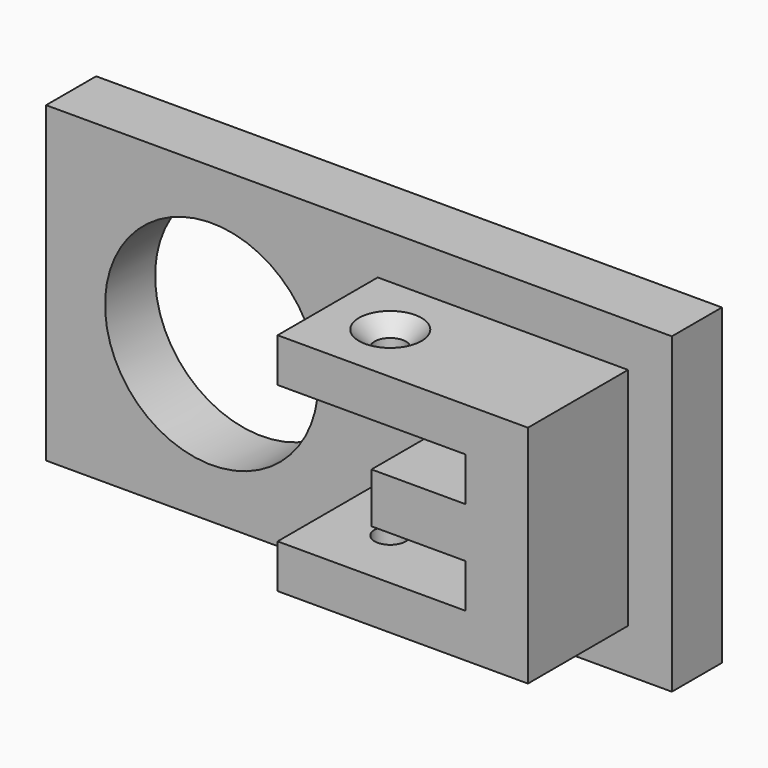
from build123d import *

# Parameters (mm, degrees)
F0_W           = 100
F0_H           = 50
F0_R           = 17.029171721
F1_DEPTH       = 10
F3_DEPTH       = 20
F5_D           = 5
F5_DEPTH       = 12
F5_CSINK_D     = 10
F5_CSINK_ANGLE = 90
F5_TIP         = 1.5021515476
F7_D           = 5
F7_CSINK_D     = 10
F7_CSINK_ANGLE = 90
F8_T           = -2.5


with BuildPart() as f1:
    # F0 (on Front) → F1 (new body)
    with BuildSketch(Plane.XZ):
        with Locations((50, 25)):
            Rectangle(F0_W, F0_H)
        with Locations((26.453634724, 25)):
            Circle(F0_R, mode=Mode.SUBTRACT)
    extrude(amount=F1_DEPTH)

    # F2 (on face) → F3 (join)
    with BuildSketch(Plane.XZ.offset(10)):
        Polygon((93, 43), (53, 43), (53, 36), (83, 36), (83, 29), (68, 29), (68, 21), (83, 21), (83, 14), (53, 14), (53, 7), (93, 7), align=None)
    extrude(amount=F3_DEPTH)

    # F5
    with Locations(Plane(origin=(0, 0, 7), x_dir=(1, 0, 0), z_dir=(0, 0, -1))):
        with Locations((63, 20)):
            CounterSinkHole(F5_D / 2, F5_CSINK_D / 2, depth=F5_DEPTH, counter_sink_angle=F5_CSINK_ANGLE)
            with Locations((0, 0, -(F5_DEPTH + F5_TIP / 2))):  # 118° drill point
                Cone(0, F5_D / 2, F5_TIP, mode=Mode.SUBTRACT)

    # F7 (through all)
    with Locations(Plane.XY.offset(43)):
        with Locations((63, -20)):
            CounterSinkHole(F7_D / 2, F7_CSINK_D / 2, counter_sink_angle=F7_CSINK_ANGLE)

    # F8
    f8_openings = [f1.faces().sort_by_distance(p)[0] for p in [
        (55.246236, 0, 25),
    ]]
    offset(amount=F8_T, openings=f8_openings, kind=Kind.INTERSECTION)


solid = f1.part
